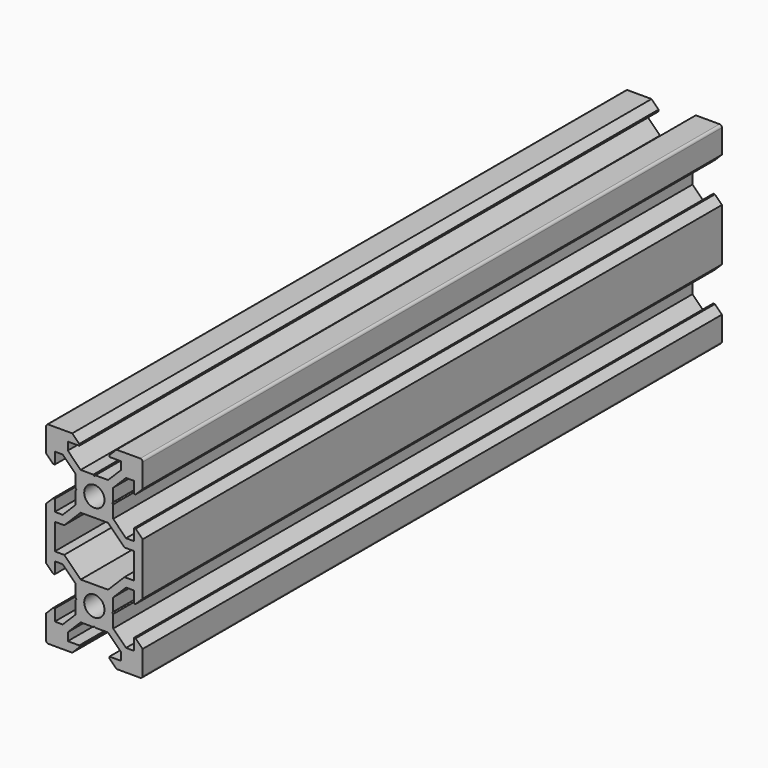
from build123d import *

# Parameters (mm, degrees)
F0_R     = 2.1
F1_DEPTH = 150


with BuildPart() as f1:
    # F0 (on Front) → F1 (new body)
    with BuildSketch(Plane.XZ):
        with BuildLine():
            Line((-3.9, 10.21), (-3.69, 10))
            Line((-3.69, 10), (-3.9, 9.79))
            Line((-3.9, 9.79), (-3.9, 7.16066))
            Line((-3.9, 7.16066), (-6.56066, 4.5))
            Line((-6.56066, 4.5), (-8.2, 4.5))
            Line((-8.2, 4.5), (-8.2, 6.875))
            Line((-8.2, 6.875), (-8.545, 6.875))
            Line((-8.545, 6.875), (-10, 5.42))
            Line((-10, 5.42), (-10, -5.42))
            Line((-10, -5.42), (-8.545, -6.875))
            Line((-8.545, -6.875), (-8.2, -6.875))
            Line((-8.2, -6.875), (-8.2, -4.5))
            Line((-8.2, -4.5), (-6.56066, -4.5))
            Line((-6.56066, -4.5), (-3.9, -7.16066))
            Line((-3.9, -7.16066), (-3.9, -9.79))
            Line((-3.9, -9.79), (-3.69, -10))
            Line((-3.69, -10), (-3.9, -10.21))
            Line((-3.9, -10.21), (-3.9, -12.83934))
            Line((-3.9, -12.83934), (-6.56066, -15.5))
            Line((-6.56066, -15.5), (-8.2, -15.5))
            Line((-8.2, -15.5), (-8.2, -13.125))
            Line((-8.2, -13.125), (-8.545, -13.125))
            Line((-8.545, -13.125), (-10, -14.58))
            Line((-10, -14.58), (-10, -19.5))
            ThreePointArc((-10, -19.5), (-9.853553, -19.853553), (-9.5, -20))
            Line((-9.5, -20), (-4.58, -20))
            Line((-4.58, -20), (-3.125, -18.545))
            Line((-3.125, -18.545), (-3.125, -18.2))
            Line((-3.125, -18.2), (-5.5, -18.2))
            Line((-5.5, -18.2), (-5.5, -16.56066))
            Line((-5.5, -16.56066), (-2.83934, -13.9))
            Line((-2.83934, -13.9), (-0.21, -13.9))
            Line((-0.21, -13.9), (0, -13.69))
            Line((0, -13.69), (0.21, -13.9))
            Line((0.21, -13.9), (2.83934, -13.9))
            Line((2.83934, -13.9), (5.5, -16.56066))
            Line((5.5, -16.56066), (5.5, -18.2))
            Line((5.5, -18.2), (3.125, -18.2))
            Line((3.125, -18.2), (3.125, -18.545))
            Line((3.125, -18.545), (4.58, -20))
            Line((4.58, -20), (9.5, -20))
            ThreePointArc((9.5, -20), (9.853553, -19.853553), (10, -19.5))
            Line((10, -19.5), (10, -14.58))
            Line((10, -14.58), (8.545, -13.125))
            Line((8.545, -13.125), (8.2, -13.125))
            Line((8.2, -13.125), (8.2, -15.5))
            Line((8.2, -15.5), (6.56066, -15.5))
            Line((6.56066, -15.5), (3.9, -12.83934))
            Line((3.9, -12.83934), (3.9, -10.21))
            Line((3.9, -10.21), (3.69, -10))
            Line((3.69, -10), (3.9, -9.79))
            Line((3.9, -9.79), (3.9, -7.16066))
            Line((3.9, -7.16066), (6.56066, -4.5))
            Line((6.56066, -4.5), (8.2, -4.5))
            Line((8.2, -4.5), (8.2, -6.875))
            Line((8.2, -6.875), (8.545, -6.875))
            Line((8.545, -6.875), (10, -5.42))
            Line((10, -5.42), (10, 5.42))
            Line((10, 5.42), (8.545, 6.875))
            Line((8.545, 6.875), (8.2, 6.875))
            Line((8.2, 6.875), (8.2, 4.5))
            Line((8.2, 4.5), (6.56066, 4.5))
            Line((6.56066, 4.5), (3.9, 7.16066))
            Line((3.9, 7.16066), (3.9, 9.79))
            Line((3.9, 9.79), (3.69, 10))
            Line((3.69, 10), (3.9, 10.21))
            Line((3.9, 10.21), (3.9, 12.83934))
            Line((3.9, 12.83934), (6.56066, 15.5))
            Line((6.56066, 15.5), (8.2, 15.5))
            Line((8.2, 15.5), (8.2, 13.125))
            Line((8.2, 13.125), (8.545, 13.125))
            Line((8.545, 13.125), (10, 14.58))
            Line((10, 14.58), (10, 19.5))
            ThreePointArc((10, 19.5), (9.853553, 19.853553), (9.5, 20))
            Line((9.5, 20), (4.58, 20))
            Line((4.58, 20), (3.125, 18.545))
            Line((3.125, 18.545), (3.125, 18.2))
            Line((3.125, 18.2), (5.5, 18.2))
            Line((5.5, 18.2), (5.5, 16.56066))
            Line((5.5, 16.56066), (2.83934, 13.9))
            Line((2.83934, 13.9), (0.21, 13.9))
            Line((0.21, 13.9), (0, 13.69))
            Line((0, 13.69), (-0.21, 13.9))
            Line((-0.21, 13.9), (-2.83934, 13.9))
            Line((-2.83934, 13.9), (-5.5, 16.56066))
            Line((-5.5, 16.56066), (-5.5, 18.2))
            Line((-5.5, 18.2), (-3.125, 18.2))
            Line((-3.125, 18.2), (-3.125, 18.545))
            Line((-3.125, 18.545), (-4.58, 20))
            Line((-4.58, 20), (-9.5, 20))
            ThreePointArc((-9.5, 20), (-9.853553, 19.853553), (-10, 19.5))
            Line((-10, 19.5), (-10, 14.58))
            Line((-10, 14.58), (-8.545, 13.125))
            Line((-8.545, 13.125), (-8.2, 13.125))
            Line((-8.2, 13.125), (-8.2, 15.5))
            Line((-8.2, 15.5), (-6.56066, 15.5))
            Line((-6.56066, 15.5), (-3.9, 12.83934))
            Line((-3.9, 12.83934), (-3.9, 10.21))
        make_face()
        with Locations((0, -10)):
            Circle(F0_R, mode=Mode.SUBTRACT)
        Polygon((-6.23934, -2.7), (-8.2, -2.7), (-8.2, 2.7), (-6.23934, 2.7), (-2.83934, 6.1), (2.83934, 6.1), (6.23934, 2.7), (8.2, 2.7), (8.2, -2.7), (6.23934, -2.7), (2.83934, -6.1), (-2.83934, -6.1), align=None, mode=Mode.SUBTRACT)
        with Locations((0, 10)):
            Circle(F0_R, mode=Mode.SUBTRACT)
    extrude(amount=F1_DEPTH)


solid = f1.part
